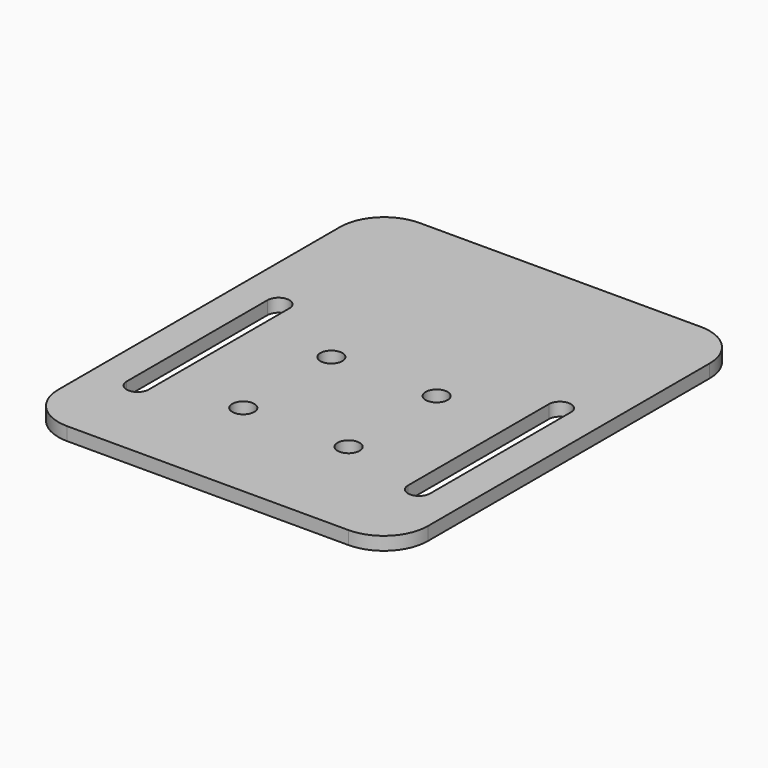
from build123d import *

# Parameters (mm, degrees)
F0_W     = 41.957522
F0_H     = 100
F1_DEPTH = 3
F3_D     = 5
F6_DEPTH = 25
F7_R     = 10


with BuildPart() as f1:
    # F0 (on Top) → F1 (new body)
    with BuildSketch(Plane.XY):
        with Locations((20.978761, 50)):
            Rectangle(F0_W, F0_H)
    extrude(amount=F1_DEPTH)

    # F3 (through all)
    with Locations(Plane.XY.offset(3)):
        with Locations((11.957522, 50), (11.957522, 25)):
            Hole(F3_D / 2)

    # F5 (on face) → F6 (cut)
    with BuildSketch(Plane.XY.offset(3)):
        with BuildLine():
            ThreePointArc((29.457522, 20), (31.957522, 17.5), (34.457522, 20))
            Line((34.457522, 20), (34.457522, 60))
            ThreePointArc((34.457522, 60), (31.957522, 62.5), (29.457522, 60))
            Line((29.457522, 60), (29.457522, 20))
        make_face()
    extrude(amount=-F6_DEPTH, mode=Mode.SUBTRACT)

    # F7
    f7_edges = [f1.edges().sort_by_distance(p)[0] for p in [
        (41.957522, 0, 1.5),
        (41.957522, 100, 1.5),
    ]]
    fillet(f7_edges, radius=F7_R)

    # F8: F1 across plane


with BuildPart() as f1_1:
    add(f1.part)
    add(f1.part.mirror(Plane.YZ))


solid = f1_1.part
